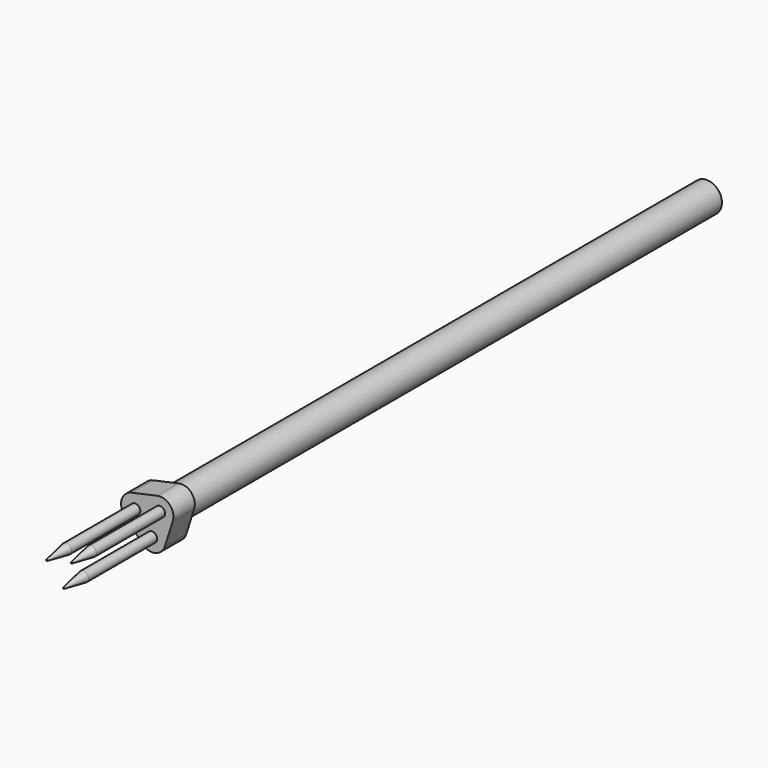
from build123d import *

# Parameters (mm, degrees)
F0_R       = 4.5
F1_DEPTH   = 200
F2_R       = 4.5
F3_DEPTH   = 8
F4_R       = 1.5
F5_DEPTH   = 33
F6_SIZE2   = 1.3
F6_SIZE    = 7.3726663655
F6_2_SIZE2 = 1.3
F6_2_SIZE  = 7.3726663655
F6_3_SIZE2 = 1.3
F6_3_SIZE  = 7.3726663655


with BuildPart() as f1:
    # F0 (on Front) → F1 (new body)
    with BuildSketch(Plane.XZ):
        Circle(F0_R)
    extrude(amount=F1_DEPTH)

    # F2 (on face) → F3 (join)
    with BuildSketch(Plane.XZ.offset(200)):
        with BuildLine():
            Line((2.4631588878, 6.9413866261), (-5.1490192915, 5.2666498209))
            ThreePointArc((-5.1490192915, 5.2666498209), (-8.1024719288, 2.5690365204), (-7.2429965996, -1.3375351427))
            Line((-7.2429965996, -1.3375351427), (-1.986542892, -7.0925064215))
            ThreePointArc((-1.986542892, -7.0925064215), (1.8263850745, -8.301464784), (4.7798377118, -5.6038514834))
            Line((4.7798377118, -5.6038514834), (7.1355621835, 1.8258566006))
            ThreePointArc((7.1355621835, 1.8258566006), (6.2760868543, 5.7324282636), (2.4631588878, 6.9413866261))
        make_face()
        Circle(F2_R, mode=Mode.SUBTRACT)
        Circle(F2_R)
    extrude(amount=F3_DEPTH)

    # F4 (on face) → F5 (join)
    with BuildSketch(Plane.XZ.offset(208)):
        with Locations((3.322634217, 3.0348149631)):
            Circle(F4_R)
        with Locations((-4.0512359644, 1.2845182602)):
            Circle(F4_R)
        with Locations((0.9669097453, -4.3948931209)):
            Circle(F4_R)
    extrude(amount=F5_DEPTH)

    # F6
    f6_edges = [f1.edges().sort_by_distance(p)[0] for p in [
        (-0.53309, -241, -4.394893),
    ]]
    f6_side = f1.faces().sort_by_distance((-0.53309, -224.5, -4.394893))[0]
    chamfer(f6_edges, length=F6_SIZE, length2=F6_SIZE2, reference=f6_side)

    # F6#2
    f6_2_edges = [f1.edges().sort_by_distance(p)[0] for p in [
        (-5.551236, -241, 1.284518),
    ]]
    f6_2_side = f1.faces().sort_by_distance((-5.551236, -224.5, 1.284518))[0]
    chamfer(f6_2_edges, length=F6_2_SIZE, length2=F6_2_SIZE2, reference=f6_2_side)

    # F6#3
    f6_3_edges = [f1.edges().sort_by_distance(p)[0] for p in [
        (1.822634, -241, 3.034815),
    ]]
    f6_3_side = f1.faces().sort_by_distance((1.822634, -224.5, 3.034815))[0]
    chamfer(f6_3_edges, length=F6_3_SIZE, length2=F6_3_SIZE2, reference=f6_3_side)


solid = f1.part
